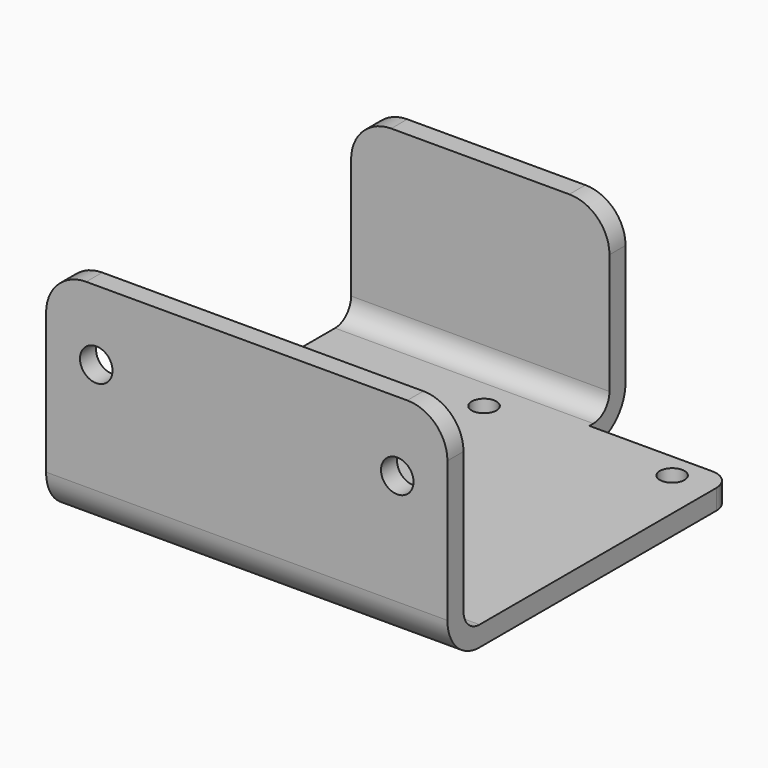
from build123d import *

# Parameters (mm, degrees)
SKETCH_W        = 40
SKETCH_H        = 35.5
PAD_DEPTH       = 2
SKETCH001_W     = 40
SKETCH001_H     = 22
PAD001_DEPTH    = 2
SKETCH002_W     = 25.75
SKETCH002_H     = 2
PAD002_DEPTH    = 2.5
SKETCH003_W     = 25.75
SKETCH003_H     = 20
PAD003_DEPTH    = 2
FILLET_R        = 4
FILLET001_R     = 2
FILLET002_R     = 4
FILLET003_R     = 2
SKETCH004_R     = 1.23
POCKET_DEPTH    = 5
SKETCH005_R     = 1.62
POCKET001_DEPTH = 5


with BuildPart() as part:
    # Sketch → Pad (new body)
    with BuildSketch(Plane.XY):
        with Locations((0, 17.75)):
            Rectangle(SKETCH_W, SKETCH_H)
    extrude(amount=PAD_DEPTH)

    # Sketch001 → Pad001 (new body)
    with BuildSketch(Plane.XZ):
        with Locations((0, 11)):
            Rectangle(SKETCH001_W, SKETCH001_H)
    extrude(amount=-PAD001_DEPTH)

    # Sketch002 → Pad002 (new body)
    with BuildSketch(Plane(origin=(0, 35.5, 0), x_dir=(-1, 0, 0), z_dir=(0, 1, 0))):
        with Locations((7.125, 1)):
            Rectangle(SKETCH002_W, SKETCH002_H)
    extrude(amount=PAD002_DEPTH)

    # Sketch003 → Pad003 (new body)
    with BuildSketch(Plane(origin=(0, 38, 0), x_dir=(-1, 0, 0), z_dir=(0, 1, 0))):
        with Locations((7.125, 10)):
            Rectangle(SKETCH003_W, SKETCH003_H)
    extrude(amount=PAD003_DEPTH)

    # Fillet
    fillet_edges = [part.edges().sort_by_distance(p)[0] for p in [
        (0, 0, 0),
        (-7.125, 40, 0),
    ]]
    fillet(fillet_edges, radius=FILLET_R)

    # Fillet001
    fillet001_edges = [part.edges().sort_by_distance(p)[0] for p in [
        (-7.125, 38, 2),
        (0, 2, 2),
    ]]
    fillet(fillet001_edges, radius=FILLET001_R)

    # Fillet002
    fillet002_edges = [part.edges().sort_by_distance(p)[0] for p in [
        (20, 1, 22),
        (-20, 1, 22),
        (-20, 39, 20),
        (5.75, 39, 20),
    ]]
    fillet(fillet002_edges, radius=FILLET002_R)

    # Fillet003
    fillet003_edges = [part.edges().sort_by_distance(p)[0] for p in [
        (20, 35.5, 1),
    ]]
    fillet(fillet003_edges, radius=FILLET003_R)

    # Sketch004 → Pocket (cut)
    with BuildSketch(Plane.XY.offset(2)):
        with Locations((16, 33)):
            Circle(SKETCH004_R)
        with Locations((-2.75, 33)):
            Circle(SKETCH004_R)
    extrude(amount=-POCKET_DEPTH, mode=Mode.SUBTRACT)

    # Sketch005 → Pocket001 (cut)
    with BuildSketch(Plane.XZ):
        with Locations((-15, 15.05)):
            Circle(SKETCH005_R)
        with Locations((15, 15.05)):
            Circle(SKETCH005_R)
    extrude(amount=-POCKET001_DEPTH, mode=Mode.SUBTRACT)


solid = part.part
